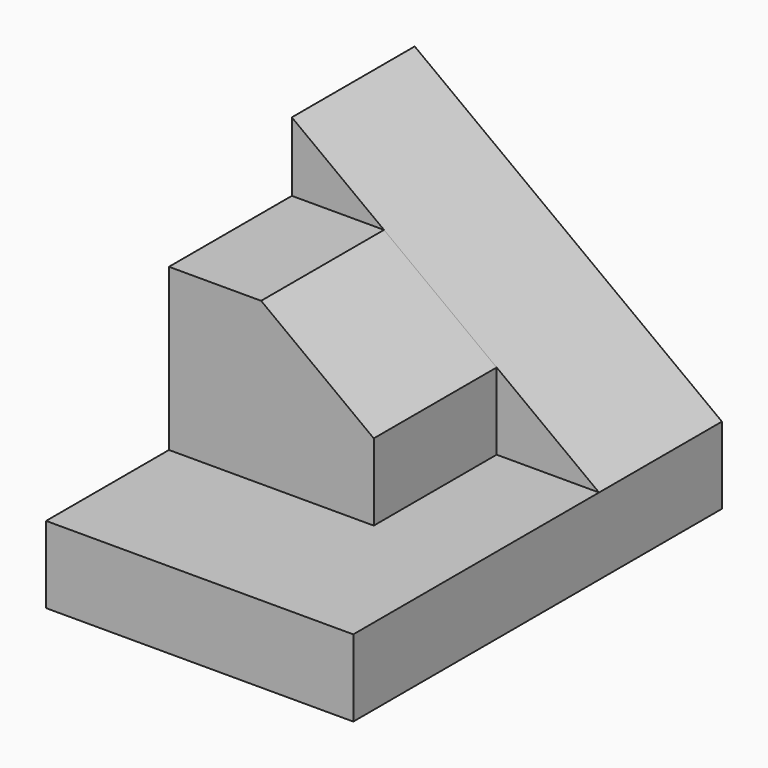
from build123d import *

# Parameters (mm, degrees)
F0_W     = 25.4
F0_H     = 6.35
F1_DEPTH = 38.1
F3_DEPTH = 12.7
F5_DEPTH = 12.7


with BuildPart() as f1:
    # F0 (on Front) → F1 (new body)
    with BuildSketch(Plane.XZ):
        with Locations((12.7, 3.175)):
            Rectangle(F0_W, F0_H)
    extrude(amount=F1_DEPTH)

    # F2 (on Front) → F3 (join)
    with BuildSketch(Plane.XZ):
        Polygon((0, 25.4), (0, 6.35), (25.4, 6.35), align=None)
    extrude(amount=F3_DEPTH)

    # F4 (on face) → F5 (join)
    with BuildSketch(Plane.XZ.offset(12.7)):
        Polygon((0, 19.685), (0, 6.35), (16.933333, 6.35), (16.933333, 12.7), (7.62, 19.685), align=None)
    extrude(amount=F5_DEPTH)


solid = f1.part
